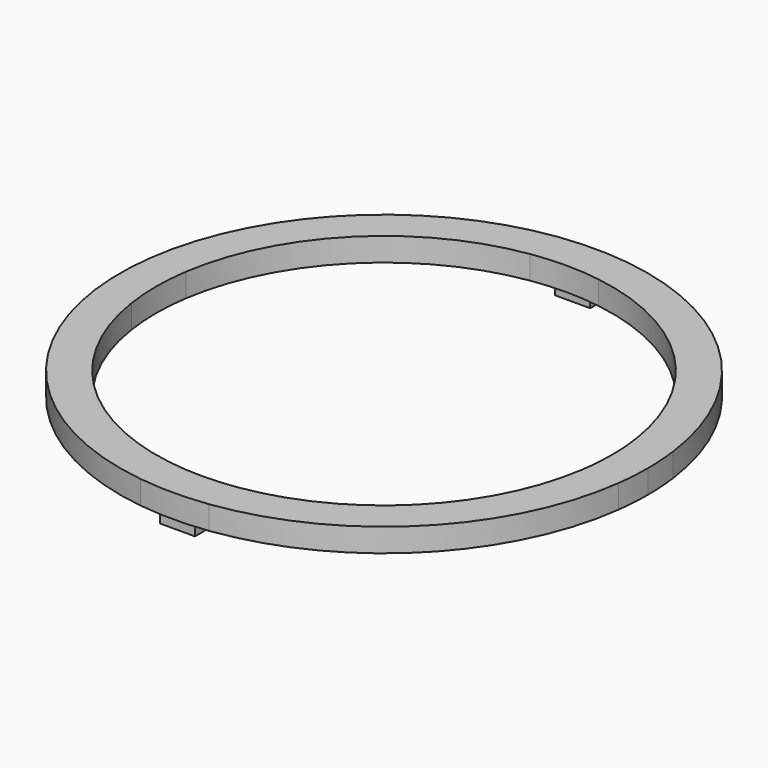
from build123d import *

# Parameters (mm, degrees)
F1_DEPTH = 2
F2_W     = 3
F2_H     = 1.282783
F2_H_2   = 2.154531
F3_DEPTH = 1


with BuildPart() as f1:
    # F0 (on Top) → F1 (new body)
    with BuildSketch(Plane.XY):
        with BuildLine():
            ThreePointArc((-2.919161, 19.223318), (0, 19.4437), (2.919161, 19.223318))
            Line((2.919161, 19.223318), (2.919161, 22.327326))
            ThreePointArc((2.919161, 22.327326), (0, 22.517349), (-2.919161, 22.327326))
            Line((-2.919161, 22.327326), (-2.919161, 19.223318))
        make_face()
        with BuildLine():
            ThreePointArc((-19.223318, -2.919161), (-19.4437, 0), (-19.223318, 2.919161))
            Line((-19.223318, 2.919161), (-22.327326, 2.919161))
            ThreePointArc((-22.327326, 2.919161), (-22.517349, 0), (-22.327326, -2.919161))
            Line((-22.327326, -2.919161), (-19.223318, -2.919161))
        make_face()
        with BuildLine():
            Line((2.919161, -22.327326), (2.919161, -19.223318))
            ThreePointArc((2.919161, -19.223318), (0, -19.4437), (-2.919161, -19.223318))
            Line((-2.919161, -19.223318), (-2.919161, -22.327326))
            ThreePointArc((-2.919161, -22.327326), (0, -22.517349), (2.919161, -22.327326))
        make_face()
        with BuildLine():
            ThreePointArc((19.223318, 2.919161), (19.388526, 1.463734), (19.4437, 0))
            ThreePointArc((19.4437, 0), (19.388526, -1.463734), (19.223318, -2.919161))
            Line((19.223318, -2.919161), (22.327326, -2.919161))
            ThreePointArc((22.327326, -2.919161), (22.469793, -1.46267), (22.517349, 0))
            ThreePointArc((22.517349, 0), (22.469793, 1.46267), (22.327326, 2.919161))
            Line((22.327326, 2.919161), (19.223318, 2.919161))
        make_face()
        with BuildLine():
            Line((-2.919161, -22.327326), (-2.919161, -19.223318))
            ThreePointArc((-2.919161, -19.223318), (-13.748772, -13.748772), (-19.223318, -2.919161))
            Line((-19.223318, -2.919161), (-22.327326, -2.919161))
            ThreePointArc((-22.327326, -2.919161), (-15.92217, -15.92217), (-2.919161, -22.327326))
        make_face()
        with BuildLine():
            ThreePointArc((-19.223318, 2.919161), (-13.748772, 13.748772), (-2.919161, 19.223318))
            Line((-2.919161, 19.223318), (-2.919161, 22.327326))
            ThreePointArc((-2.919161, 22.327326), (-15.92217, 15.92217), (-22.327326, 2.919161))
            Line((-22.327326, 2.919161), (-19.223318, 2.919161))
        make_face()
        with BuildLine():
            ThreePointArc((2.919161, 19.223318), (13.748772, 13.748772), (19.223318, 2.919161))
            Line((19.223318, 2.919161), (22.327326, 2.919161))
            ThreePointArc((22.327326, 2.919161), (15.92217, 15.92217), (2.919161, 22.327326))
            Line((2.919161, 22.327326), (2.919161, 19.223318))
        make_face()
        with BuildLine():
            Line((22.327326, -2.919161), (19.223318, -2.919161))
            ThreePointArc((19.223318, -2.919161), (13.748772, -13.748772), (2.919161, -19.223318))
            Line((2.919161, -19.223318), (2.919161, -22.327326))
            ThreePointArc((2.919161, -22.327326), (15.92217, -15.92217), (22.327326, -2.919161))
        make_face()
    extrude(amount=F1_DEPTH)

    # F2 (on face) → F3 (join)
    with BuildSketch(Plane.XY):
        with Locations((0, 20.753262)):
            Rectangle(F2_W, F2_H)
        with Locations((0, -20.961365)):
            Rectangle(F2_W, F2_H_2)
    extrude(amount=-F3_DEPTH)


solid = f1.part
